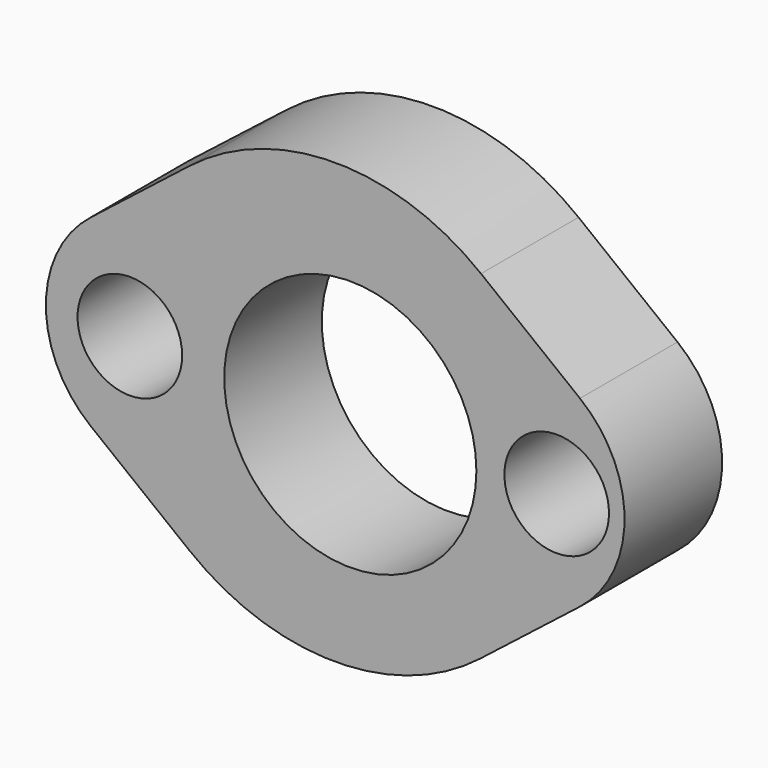
from build123d import *

# Parameters (mm, degrees)
F0_R     = 26.257963
F0_R_2   = 10.893453
F0_R_3   = 10.89345
F1_DEPTH = 25.4


with BuildPart() as f1:
    # F0 (on Front) → F1 (new body)
    with BuildSketch(Plane.XZ):
        with BuildLine():
            Line((47.82569, 20.324453), (27.217185, 36.484402))
            ThreePointArc((27.217185, 36.484402), (-3.142112, 46.968006), (-33.501409, 36.484402))
            Line((-33.501409, 36.484402), (-54.109914, 20.324454))
            ThreePointArc((-54.109914, 20.324454), (-63.401012, 1.232018), (-54.109914, -17.860418))
            Line((-54.109914, -17.860418), (-33.501409, -34.020366))
            ThreePointArc((-33.501409, -34.020366), (-3.199316, -44.543466), (27.127191, -34.090935))
            Line((27.127191, -34.090935), (47.82569, -17.860418))
            ThreePointArc((47.82569, -17.860418), (57.116788, 1.232018), (47.82569, 20.324453))
        make_face()
        Circle(F0_R, mode=Mode.SUBTRACT)
        with Locations((-45.913499, 1.232018)):
            Circle(F0_R_2, mode=Mode.SUBTRACT)
        with Locations((42.98389, 1.232018)):
            Circle(F0_R_3, mode=Mode.SUBTRACT)
    extrude(amount=F1_DEPTH)


solid = f1.part
